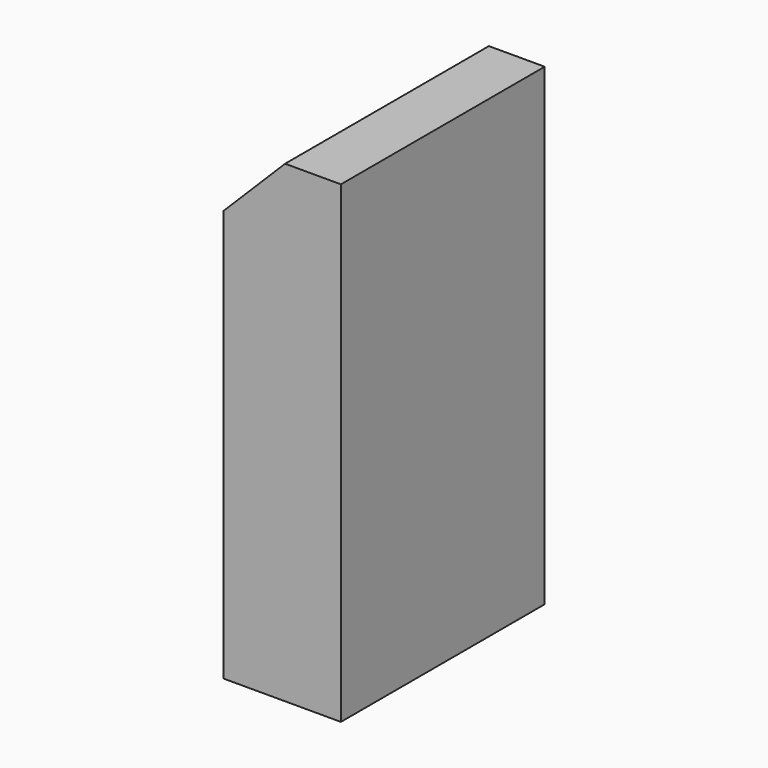
from build123d import *

# Parameters (mm, degrees)
F1_DEPTH = 82.55
F2_R     = 4.36499
F3_DEPTH = 25.4
F4_R     = 4.3688
F5_DEPTH = 25.4


with BuildPart() as f1:
    # F0 (on Front) → F1 (new body)
    with BuildSketch(Plane.XZ):
        Polygon((0, 133.35), (0, 0), (38.1, 0), (38.1, 153.3652), (20.0152, 153.3652), align=None)
    extrude(amount=F1_DEPTH)

    # F2 (on face) → F3 (cut)
    with BuildSketch(Plane(origin=(-66.675, 0, 66.675), x_dir=(0, -1, 0), z_dir=(-0.707107, 0, 0.707107))):
        with Locations((9.525, 108.445573)):
            Circle(F2_R)
        with Locations((73.025, 108.445573)):
            Circle(F2_R)
    extrude(amount=-F3_DEPTH, mode=Mode.SUBTRACT)

    # F4 (on face) → F5 (cut)
    with BuildSketch(Plane(origin=(0, 0, 0), x_dir=(1, 0, 0), z_dir=(0, 0, -1))):
        with BuildLine():
            ThreePointArc((23.4188, 14.15288), (15.960792, 17.242088), (19.05, 9.78408))
            ThreePointArc((19.05, 9.78408), (22.139208, 11.063672), (23.4188, 14.15288))
        make_face()
        with Locations((19.05, 68.39712)):
            Circle(F4_R)
    extrude(amount=-F5_DEPTH, mode=Mode.SUBTRACT)


solid = f1.part
